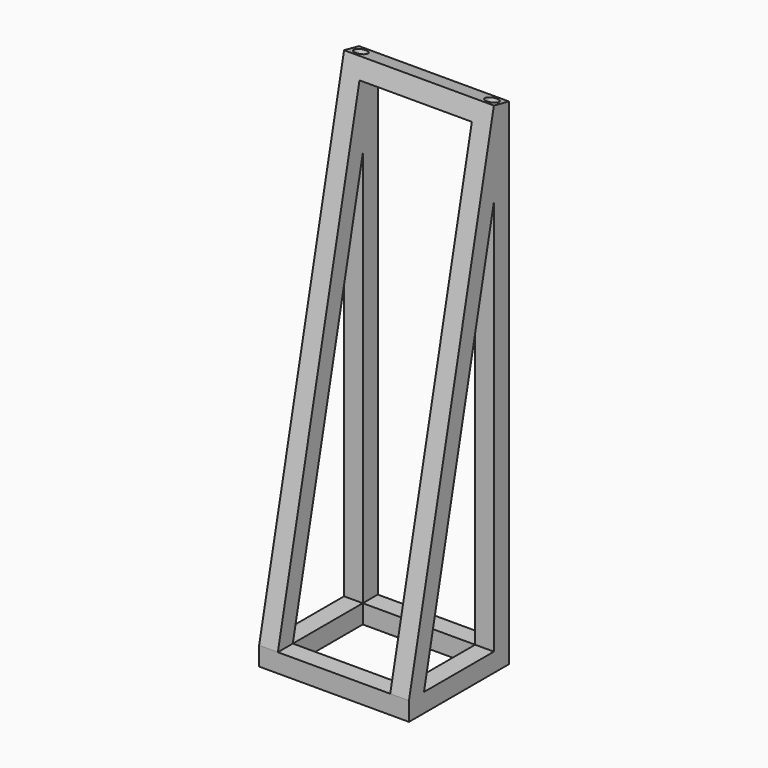
from build123d import *

# Parameters (mm, degrees)
F1_DEPTH = 30.48
F2_W     = 22.86
F2_H     = 93.98
F3_DEPTH = 25.4
F4_W     = 22.86
F4_H     = 17.78
F5_DEPTH = 25.4
F7_DEPTH = 50.8
F8_R     = 1.27
F9_DEPTH = 25.4


with BuildPart() as f1:
    # F0 (on Right) → F1 (new body)
    with BuildSketch(Plane.YZ):
        Polygon((-30.7647287846, 64.6939707769), (-52.3547287846, -33.0960292231), (-48.5447287846, -33.0960292231), (-30.7647287846, 47.4369119534), align=None)
        Polygon((-52.3547287846, -33.0960292231), (-52.3547287846, -36.9060292231), (-26.9547287846, -36.9060292231), (-26.9547287846, -33.0960292231), (-30.7647287846, -33.0960292231), (-48.5447287846, -33.0960292231), align=None)
        Polygon((-30.7647287846, -33.0960292231), (-26.9547287846, -33.0960292231), (-26.9547287846, 64.6939707769), (-30.7647287846, 47.4369119534), align=None)
        Polygon((-26.9547287846, 64.6939707769), (-30.7647287846, 64.6939707769), (-30.7647287846, 47.4369119534), align=None)
    extrude(amount=F1_DEPTH)

    # F2 (on face) → F3 (cut)
    with BuildSketch(Plane(origin=(0, -26.9547287846, 0), x_dir=(-1, 0, 0), z_dir=(0, 1, 0))):
        with Locations((-15.24, 13.8939707769)):
            Rectangle(F2_W, F2_H)
    extrude(amount=-F3_DEPTH, mode=Mode.SUBTRACT)

    # F4 (on face) → F5 (cut)
    with BuildSketch(Plane.XY.offset(-33.0960292231)):
        with Locations((15.24, -39.6547287846)):
            Rectangle(F4_W, F4_H)
    extrude(amount=-F5_DEPTH, mode=Mode.SUBTRACT)

    # F6 (on face) → F7 (cut)
    with BuildSketch(Plane(origin=(0, 0, 0), x_dir=(0, -1, 0), z_dir=(-1, 0, 0))):
        Polygon((26.9547287846, 63.8841302769), (30.7647287846, 64.6939707769), (26.9547287846, 64.6939707769), align=None)
    extrude(amount=-F7_DEPTH, mode=Mode.SUBTRACT)

    # F8 (on face) → F9 (cut)
    with BuildSketch(Plane(origin=(0, 11.8268289766, 55.640855703), x_dir=(1, 0, 0), z_dir=(0, 0.2079116908, 0.9781476007))):
        with Locations((28.575, -41.5955196646)):
            Circle(F8_R)
        with Locations((1.905, -41.5955196646)):
            Circle(F8_R)
    extrude(amount=-F9_DEPTH, mode=Mode.SUBTRACT)


solid = f1.part
